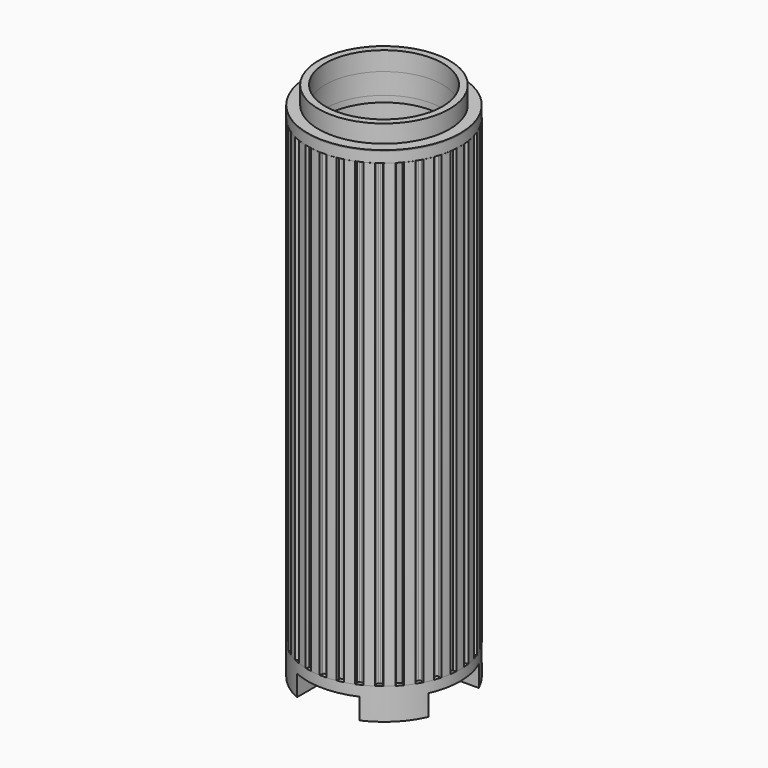
from build123d import *

# Parameters (mm, degrees)
CYLINDER001_R          = 36.5
CYLINDER001_DEPTH      = 400
CYLINDER002_R          = 100
CYLINDER002_DEPTH      = 400
CYLINDER_R             = 32
CYLINDER_DEPTH         = 240
PAD_DEPTH              = 220
BOX002_W               = 100
BOX002_H               = 30
BOX002_DEPTH           = 10
BOX003_W               = 100
BOX003_H               = 30
BOX003_DEPTH           = 10
BOX003_PLACEMENT_ANGLE = 90
CYLINDER006_R          = 19
CYLINDER006_DEPTH      = 55
CYLINDER005_R          = 15
CYLINDER005_DEPTH      = 90
CYLINDER007_R          = 22
CYLINDER007_DEPTH      = 60
CYLINDER003_R          = 36.5
CYLINDER003_DEPTH      = 15
CYLINDER004_R          = 31.3
CYLINDER004_DEPTH      = 22.5
CHAMFER_SIZE           = 3
CYLINDER010_R          = 28
CYLINDER010_DEPTH      = 55
CYLINDER008_R          = 36.5
CYLINDER008_DEPTH      = 5
CYLINDER009_R          = 31.3
CYLINDER009_DEPTH      = 22
CYLINDER013_R          = 28
CYLINDER013_DEPTH      = 55
CYLINDER011_R          = 36.5
CYLINDER011_DEPTH      = 5
CYLINDER012_R          = 31.3
CYLINDER012_DEPTH      = 10


with BuildPart() as cylinder001:
    # Cylinder001 → Cylinder001 (new body)
    with BuildSketch(Plane.XY):
        Circle(CYLINDER001_R)
    extrude(amount=CYLINDER001_DEPTH)


with BuildPart() as cut001:
    # Cylinder002 → Cylinder002 (new body)
    with BuildSketch(Plane.XY):
        Circle(CYLINDER002_R)
    extrude(amount=CYLINDER002_DEPTH)

    # Cut001: cut Cylinder001
    add(cylinder001.part, mode=Mode.SUBTRACT)


with BuildPart() as cylinder:
    # Cylinder → Cylinder (new body)
    with BuildSketch(Plane.XY.offset(-10)):
        Circle(CYLINDER_R)
    extrude(amount=CYLINDER_DEPTH)


with BuildPart() as shade:
    # InvoluteGear → Pad (new body)
    with BuildSketch(Plane.XY):
        with BuildLine():
            Line((34.920851, -2.352474), (35.210847, -2.370096))
            add(Edge.make_bspline(
                [(35.210847, -2.370096), (35.34891, -2.371906), (35.765082, -2.362435), (36.457725, -2.219265)],
                knots=[0, 0, 0, 0, 1, 1, 1, 1], degree=3))
            add(Edge.make_bspline(
                [(36.457725, -2.219265), (37.288232, -2.045697), (38.490143, -1.681478), (39.991928, -0.920792)],
                knots=[0, 0, 0, 0, 1, 1, 1, 1], degree=3))
            ThreePointArc((39.991928, -0.920792), (40.002527, 0), (39.991928, 0.920792))
            add(Edge.make_bspline(
                [(39.991928, 0.920792), (38.490143, 1.681478), (37.288232, 2.045697), (36.457725, 2.219265)],
                knots=[0, 0, 0, 0, 1, 1, 1, 1], degree=3))
            add(Edge.make_bspline(
                [(36.457725, 2.219265), (35.765082, 2.362435), (35.34891, 2.371906), (35.210847, 2.370096)],
                knots=[0, 0, 0, 0, 1, 1, 1, 1], degree=3))
            Line((35.210847, 2.370096), (34.920851, 2.352474))
            ThreePointArc((34.920851, 2.352474), (34.429753, 2.671588), (34.223866, 3.219878))
            ThreePointArc((34.223866, 3.219878), (34.18669, 3.593166), (34.145443, 3.966026))
            ThreePointArc((34.145443, 3.966026), (34.232835, 4.545141), (34.646854, 4.959386))
            Line((34.646854, 4.959386), (34.934177, 5.002443))
            add(Edge.make_bspline(
                [(34.934177, 5.002443), (35.069599, 5.029378), (35.474707, 5.125169), (36.122448, 5.409219)],
                knots=[0, 0, 0, 0, 1, 1, 1, 1], degree=3))
            add(Edge.make_bspline(
                [(36.122448, 5.409219), (36.898719, 5.751666), (37.99864, 6.357817), (39.309452, 7.414119)],
                knots=[0, 0, 0, 0, 1, 1, 1, 1], degree=3))
            ThreePointArc((39.309452, 7.414119), (39.128376, 8.316993), (38.926565, 9.21546))
            add(Edge.make_bspline(
                [(38.926565, 9.21546), (37.299442, 9.647284), (36.048071, 9.753653), (35.199625, 9.750756)],
                knots=[0, 0, 0, 0, 1, 1, 1, 1], degree=3))
            add(Edge.make_bspline(
                [(35.199625, 9.750756), (34.492351, 9.746788), (34.083305, 9.669526), (33.948635, 9.639051)],
                knots=[0, 0, 0, 0, 1, 1, 1, 1], degree=3))
            Line((33.948635, 9.639051), (33.66864, 9.56152))
            ThreePointArc((33.66864, 9.56152), (33.121926, 9.771556), (32.806542, 10.265058))
            ThreePointArc((32.806542, 10.265058), (32.692568, 10.622459), (32.5747, 10.978595))
            ThreePointArc((32.5747, 10.978595), (32.539777, 11.563225), (32.858623, 12.054498))
            Line((32.858623, 12.054498), (33.130715, 12.156352))
            add(Edge.make_bspline(
                [(33.130715, 12.156352), (33.257577, 12.210853), (33.633917, 12.388778), (34.208446, 12.801294)],
                knots=[0, 0, 0, 0, 1, 1, 1, 1], degree=3))
            add(Edge.make_bspline(
                [(34.208446, 12.801294), (34.896555, 13.297653), (35.846414, 14.119245), (36.908964, 15.424997)],
                knots=[0, 0, 0, 0, 1, 1, 1, 1], degree=3))
            ThreePointArc((36.908964, 15.424997), (36.544127, 16.270494), (36.159924, 17.107368))
            add(Edge.make_bspline(
                [(36.159924, 17.107368), (34.478576, 17.191458), (33.232435, 17.035327), (32.403133, 16.856092)],
                knots=[0, 0, 0, 0, 1, 1, 1, 1], degree=3))
            add(Edge.make_bspline(
                [(32.403133, 16.856092), (31.71214, 16.705161), (31.328095, 16.544541), (31.202705, 16.486732)],
                knots=[0, 0, 0, 0, 1, 1, 1, 1], degree=3))
            Line((31.202705, 16.486732), (30.944948, 16.352682))
            ThreePointArc((30.944948, 16.352682), (30.366512, 16.444459), (29.955415, 16.861605))
            ThreePointArc((29.955415, 16.861605), (29.769623, 17.1875), (29.580286, 17.511348))
            ThreePointArc((29.580286, 17.511348), (29.424575, 18.075941), (29.634312, 18.62277))
            Line((29.634312, 18.62277), (29.879281, 18.778969))
            add(Edge.make_bspline(
                [(29.879281, 18.778969), (29.99204, 18.858656), (30.323163, 19.110938), (30.79937, 19.63389)],
                knots=[0, 0, 0, 0, 1, 1, 1, 1], degree=3))
            add(Edge.make_bspline(
                [(30.79937, 19.63389), (31.369244, 20.26247), (32.127527, 21.263594), (32.895377, 22.761729)],
                knots=[0, 0, 0, 0, 1, 1, 1, 1], degree=3))
            ThreePointArc((32.895377, 22.761729), (32.362724, 23.512896), (31.812921, 24.251602))
            add(Edge.make_bspline(
                [(31.812921, 24.251602), (30.150831, 23.984282), (28.964383, 23.572476), (28.190468, 23.224736)],
                knots=[0, 0, 0, 0, 1, 1, 1, 1], degree=3))
            add(Edge.make_bspline(
                [(28.190468, 23.224736), (27.545955, 22.933438), (27.203698, 22.69648), (27.093067, 22.613865)],
                knots=[0, 0, 0, 0, 1, 1, 1, 1], degree=3))
            Line((27.093067, 22.613865), (26.868813, 22.429153))
            ThreePointArc((26.868813, 22.429153), (26.283935, 22.398661), (25.795092, 22.72122))
            ThreePointArc((25.795092, 22.72122), (25.545603, 23.001365), (25.293072, 23.27877))
            ThreePointArc((25.293072, 23.27877), (25.023378, 23.798651), (25.11484, 24.377138))
            Line((25.11484, 24.377138), (25.32198, 24.580855))
            add(Edge.make_bspline(
                [(25.32198, 24.580855), (25.415707, 24.682245), (25.687142, 24.997858), (26.044215, 25.608392)],
                knots=[0, 0, 0, 0, 1, 1, 1, 1], degree=3))
            add(Edge.make_bspline(
                [(26.044215, 25.608392), (26.470946, 26.341719), (27.004514, 27.478622), (27.444105, 29.103664)],
                knots=[0, 0, 0, 0, 1, 1, 1, 1], degree=3))
            ThreePointArc((27.444105, 29.103664), (26.766915, 29.727671), (26.075541, 30.335924))
            add(Edge.make_bspline(
                [(26.075541, 30.335924), (24.505351, 29.728879), (23.430449, 29.079395), (22.745745, 28.578348)],
                knots=[0, 0, 0, 0, 1, 1, 1, 1], degree=3))
            add(Edge.make_bspline(
                [(22.745745, 28.578348), (22.17588, 28.159413), (21.890368, 27.856474), (21.799331, 27.752663)],
                knots=[0, 0, 0, 0, 1, 1, 1, 1], degree=3))
            Line((21.799331, 27.752663), (21.618381, 27.525363))
            ThreePointArc((21.618381, 27.525363), (21.052625, 27.373934), (20.507401, 27.587808))
            ThreePointArc((20.507401, 27.587808), (20.205118, 27.809959), (19.900429, 28.028798))
            ThreePointArc((19.900429, 28.028798), (19.52854, 28.481247), (19.497728, 29.066107))
            Line((19.497728, 29.066107), (19.657987, 29.30844))
            add(Edge.make_bspline(
                [(19.657987, 29.30844), (19.728586, 29.427101), (19.928469, 29.792252), (20.150802, 30.463684)],
                knots=[0, 0, 0, 0, 1, 1, 1, 1], degree=3))
            add(Edge.make_bspline(
                [(20.150802, 30.463684), (20.415742, 31.269708), (20.701274, 32.492702), (20.793393, 34.173629)],
                knots=[0, 0, 0, 0, 1, 1, 1, 1], degree=3))
            ThreePointArc((20.793393, 34.173629), (20.001264, 34.643205), (19.198535, 35.094421))
            add(Edge.make_bspline(
                [(19.198535, 35.094421), (17.788869, 34.17418), (16.872491, 33.315405), (16.306923, 32.682949)],
                knots=[0, 0, 0, 0, 1, 1, 1, 1], degree=3))
            add(Edge.make_bspline(
                [(16.306923, 32.682949), (15.836613, 32.154687), (15.620324, 31.799007), (15.55286, 31.678536)],
                knots=[0, 0, 0, 0, 1, 1, 1, 1], degree=3))
            Line((15.55286, 31.678536), (15.423123, 31.418582))
            ThreePointArc((15.423123, 31.418582), (14.901213, 31.152835), (14.323437, 31.248677))
            ThreePointArc((14.323437, 31.248677), (13.981572, 31.403125), (13.638042, 31.553834))
            ThreePointArc((13.638042, 31.553834), (13.18021, 31.919075), (13.028473, 32.484749))
            Line((13.028473, 32.484749), (13.134845, 32.755106))
            add(Edge.make_bspline(
                [(13.134845, 32.755106), (13.17923, 32.885852), (13.298827, 33.284582), (13.376703, 33.987567)],
                knots=[0, 0, 0, 0, 1, 1, 1, 1], degree=3))
            add(Edge.make_bspline(
                [(13.376703, 33.987567), (13.468271, 34.831061), (13.493289, 36.086696), (13.23391, 37.750043)],
                knots=[0, 0, 0, 0, 1, 1, 1, 1], degree=3))
            ThreePointArc((13.23391, 37.750043), (12.361461, 38.044664), (11.48246, 38.319124))
            add(Edge.make_bspline(
                [(11.48246, 38.319124), (10.294928, 37.125906), (9.577124, 36.095371), (9.155411, 35.359148)],
                knots=[0, 0, 0, 0, 1, 1, 1, 1], degree=3))
            add(Edge.make_bspline(
                [(9.155411, 35.359148), (8.805209, 34.744647), (8.667598, 34.351771), (8.626655, 34.219906)],
                knots=[0, 0, 0, 0, 1, 1, 1, 1], degree=3))
            Line((8.626655, 34.219906), (8.553801, 33.938658))
            ThreePointArc((8.553801, 33.938658), (8.098547, 33.570207), (7.51347, 33.543828))
            ThreePointArc((7.51347, 33.543828), (7.146964, 33.623824), (6.779607, 33.699815))
            ThreePointArc((6.779607, 33.699815), (6.255842, 33.961886), (5.98981, 34.483651))
            Line((5.98981, 34.483651), (6.037648, 34.770216))
            add(Edge.make_bspline(
                [(6.037648, 34.770216), (6.053879, 34.907334), (6.087962, 35.322216), (6.017977, 36.02603)],
                knots=[0, 0, 0, 0, 1, 1, 1, 1], degree=3))
            add(Edge.make_bspline(
                [(6.017977, 36.02603), (5.932172, 36.87013), (5.695582, 38.103527), (5.096042, 39.676599)],
                knots=[0, 0, 0, 0, 1, 1, 1, 1], degree=3))
            ThreePointArc((5.096042, 39.676599), (4.181403, 39.783389), (3.264547, 39.869097))
            add(Edge.make_bspline(
                [(3.264547, 39.869097), (2.351049, 38.455052), (1.863191, 37.297797), (1.603763, 36.489982)],
                knots=[0, 0, 0, 0, 1, 1, 1, 1], degree=3))
            add(Edge.make_bspline(
                [(1.603763, 36.489982), (1.388976, 35.816099), (1.336055, 35.403197), (1.323423, 35.265701)],
                knots=[0, 0, 0, 0, 1, 1, 1, 1], degree=3))
            Line((1.323423, 35.265701), (1.310636, 34.975452))
            ThreePointArc((1.310636, 34.975452), (0.941936, 34.5204), (0.375129, 34.372953))
            ThreePointArc((0.375129, 34.372953), (0, 34.375), (-0.375129, 34.372953))
            ThreePointArc((-0.375129, 34.372953), (-0.941936, 34.5204), (-1.310636, 34.975452))
            Line((-1.310636, 34.975452), (-1.323423, 35.265701))
            add(Edge.make_bspline(
                [(-1.323423, 35.265701), (-1.336055, 35.403197), (-1.388976, 35.816099), (-1.603763, 36.489982)],
                knots=[0, 0, 0, 0, 1, 1, 1, 1], degree=3))
            add(Edge.make_bspline(
                [(-1.603763, 36.489982), (-1.863191, 37.297797), (-2.351049, 38.455052), (-3.264547, 39.869097)],
                knots=[0, 0, 0, 0, 1, 1, 1, 1], degree=3))
            ThreePointArc((-3.264547, 39.869097), (-4.181403, 39.783389), (-5.096042, 39.676599))
            add(Edge.make_bspline(
                [(-5.096042, 39.676599), (-5.695582, 38.103527), (-5.932172, 36.87013), (-6.017977, 36.02603)],
                knots=[0, 0, 0, 0, 1, 1, 1, 1], degree=3))
            add(Edge.make_bspline(
                [(-6.017977, 36.02603), (-6.087962, 35.322216), (-6.053879, 34.907334), (-6.037648, 34.770216)],
                knots=[0, 0, 0, 0, 1, 1, 1, 1], degree=3))
            Line((-6.037648, 34.770216), (-5.98981, 34.483651))
            ThreePointArc((-5.98981, 34.483651), (-6.255842, 33.961886), (-6.779607, 33.699815))
            ThreePointArc((-6.779607, 33.699815), (-7.146964, 33.623824), (-7.51347, 33.543828))
            ThreePointArc((-7.51347, 33.543828), (-8.098547, 33.570207), (-8.553801, 33.938658))
            Line((-8.553801, 33.938658), (-8.626655, 34.219906))
            add(Edge.make_bspline(
                [(-8.626655, 34.219906), (-8.667598, 34.351771), (-8.805209, 34.744647), (-9.155411, 35.359148)],
                knots=[0, 0, 0, 0, 1, 1, 1, 1], degree=3))
            add(Edge.make_bspline(
                [(-9.155411, 35.359148), (-9.577124, 36.095371), (-10.294928, 37.125906), (-11.48246, 38.319124)],
                knots=[0, 0, 0, 0, 1, 1, 1, 1], degree=3))
            ThreePointArc((-11.48246, 38.319124), (-12.361461, 38.044664), (-13.23391, 37.750043))
            add(Edge.make_bspline(
                [(-13.23391, 37.750043), (-13.493289, 36.086696), (-13.468271, 34.831061), (-13.376703, 33.987567)],
                knots=[0, 0, 0, 0, 1, 1, 1, 1], degree=3))
            add(Edge.make_bspline(
                [(-13.376703, 33.987567), (-13.298827, 33.284582), (-13.17923, 32.885852), (-13.134845, 32.755106)],
                knots=[0, 0, 0, 0, 1, 1, 1, 1], degree=3))
            Line((-13.134845, 32.755106), (-13.028473, 32.484749))
            ThreePointArc((-13.028473, 32.484749), (-13.18021, 31.919075), (-13.638042, 31.553834))
            ThreePointArc((-13.638042, 31.553834), (-13.981572, 31.403125), (-14.323437, 31.248677))
            ThreePointArc((-14.323437, 31.248677), (-14.901213, 31.152835), (-15.423123, 31.418582))
            Line((-15.423123, 31.418582), (-15.55286, 31.678536))
            add(Edge.make_bspline(
                [(-15.55286, 31.678536), (-15.620324, 31.799007), (-15.836613, 32.154687), (-16.306923, 32.682949)],
                knots=[0, 0, 0, 0, 1, 1, 1, 1], degree=3))
            add(Edge.make_bspline(
                [(-16.306923, 32.682949), (-16.872491, 33.315405), (-17.788869, 34.17418), (-19.198535, 35.094421)],
                knots=[0, 0, 0, 0, 1, 1, 1, 1], degree=3))
            ThreePointArc((-19.198535, 35.094421), (-20.001264, 34.643205), (-20.793393, 34.173629))
            add(Edge.make_bspline(
                [(-20.793393, 34.173629), (-20.701274, 32.492702), (-20.415742, 31.269708), (-20.150802, 30.463684)],
                knots=[0, 0, 0, 0, 1, 1, 1, 1], degree=3))
            add(Edge.make_bspline(
                [(-20.150802, 30.463684), (-19.928469, 29.792252), (-19.728586, 29.427101), (-19.657987, 29.30844)],
                knots=[0, 0, 0, 0, 1, 1, 1, 1], degree=3))
            Line((-19.657987, 29.30844), (-19.497728, 29.066107))
            ThreePointArc((-19.497728, 29.066107), (-19.52854, 28.481247), (-19.900429, 28.028798))
            ThreePointArc((-19.900429, 28.028798), (-20.205118, 27.809959), (-20.507401, 27.587808))
            ThreePointArc((-20.507401, 27.587808), (-21.052625, 27.373934), (-21.618381, 27.525363))
            Line((-21.618381, 27.525363), (-21.799331, 27.752663))
            add(Edge.make_bspline(
                [(-21.799331, 27.752663), (-21.890368, 27.856474), (-22.17588, 28.159413), (-22.745745, 28.578348)],
                knots=[0, 0, 0, 0, 1, 1, 1, 1], degree=3))
            add(Edge.make_bspline(
                [(-22.745745, 28.578348), (-23.430449, 29.079395), (-24.505351, 29.728879), (-26.075541, 30.335924)],
                knots=[0, 0, 0, 0, 1, 1, 1, 1], degree=3))
            ThreePointArc((-26.075541, 30.335924), (-26.766915, 29.727671), (-27.444105, 29.103664))
            add(Edge.make_bspline(
                [(-27.444105, 29.103664), (-27.004514, 27.478622), (-26.470946, 26.341719), (-26.044215, 25.608392)],
                knots=[0, 0, 0, 0, 1, 1, 1, 1], degree=3))
            add(Edge.make_bspline(
                [(-26.044215, 25.608392), (-25.687142, 24.997858), (-25.415707, 24.682245), (-25.32198, 24.580855)],
                knots=[0, 0, 0, 0, 1, 1, 1, 1], degree=3))
            Line((-25.32198, 24.580855), (-25.11484, 24.377138))
            ThreePointArc((-25.11484, 24.377138), (-25.023378, 23.798651), (-25.293072, 23.27877))
            ThreePointArc((-25.293072, 23.27877), (-25.545603, 23.001365), (-25.795092, 22.72122))
            ThreePointArc((-25.795092, 22.72122), (-26.283935, 22.398661), (-26.868813, 22.429153))
            Line((-26.868813, 22.429153), (-27.093067, 22.613865))
            add(Edge.make_bspline(
                [(-27.093067, 22.613865), (-27.203698, 22.69648), (-27.545955, 22.933438), (-28.190468, 23.224736)],
                knots=[0, 0, 0, 0, 1, 1, 1, 1], degree=3))
            add(Edge.make_bspline(
                [(-28.190468, 23.224736), (-28.964383, 23.572476), (-30.150831, 23.984282), (-31.812921, 24.251602)],
                knots=[0, 0, 0, 0, 1, 1, 1, 1], degree=3))
            ThreePointArc((-31.812921, 24.251602), (-32.362724, 23.512896), (-32.895377, 22.761729))
            add(Edge.make_bspline(
                [(-32.895377, 22.761729), (-32.127527, 21.263594), (-31.369244, 20.26247), (-30.79937, 19.63389)],
                knots=[0, 0, 0, 0, 1, 1, 1, 1], degree=3))
            add(Edge.make_bspline(
                [(-30.79937, 19.63389), (-30.323163, 19.110938), (-29.99204, 18.858656), (-29.879281, 18.778969)],
                knots=[0, 0, 0, 0, 1, 1, 1, 1], degree=3))
            Line((-29.879281, 18.778969), (-29.634312, 18.62277))
            ThreePointArc((-29.634312, 18.62277), (-29.424575, 18.075941), (-29.580286, 17.511348))
            ThreePointArc((-29.580286, 17.511348), (-29.769623, 17.1875), (-29.955415, 16.861605))
            ThreePointArc((-29.955415, 16.861605), (-30.366512, 16.444459), (-30.944948, 16.352682))
            Line((-30.944948, 16.352682), (-31.202705, 16.486732))
            add(Edge.make_bspline(
                [(-31.202705, 16.486732), (-31.328095, 16.544541), (-31.71214, 16.705161), (-32.403133, 16.856092)],
                knots=[0, 0, 0, 0, 1, 1, 1, 1], degree=3))
            add(Edge.make_bspline(
                [(-32.403133, 16.856092), (-33.232435, 17.035327), (-34.478576, 17.191458), (-36.159924, 17.107368)],
                knots=[0, 0, 0, 0, 1, 1, 1, 1], degree=3))
            ThreePointArc((-36.159924, 17.107368), (-36.544127, 16.270494), (-36.908964, 15.424997))
            add(Edge.make_bspline(
                [(-36.908964, 15.424997), (-35.846414, 14.119245), (-34.896555, 13.297653), (-34.208446, 12.801294)],
                knots=[0, 0, 0, 0, 1, 1, 1, 1], degree=3))
            add(Edge.make_bspline(
                [(-34.208446, 12.801294), (-33.633917, 12.388778), (-33.257577, 12.210853), (-33.130715, 12.156352)],
                knots=[0, 0, 0, 0, 1, 1, 1, 1], degree=3))
            Line((-33.130715, 12.156352), (-32.858623, 12.054498))
            ThreePointArc((-32.858623, 12.054498), (-32.539777, 11.563225), (-32.5747, 10.978595))
            ThreePointArc((-32.5747, 10.978595), (-32.692568, 10.622459), (-32.806542, 10.265058))
            ThreePointArc((-32.806542, 10.265058), (-33.121926, 9.771556), (-33.66864, 9.56152))
            Line((-33.66864, 9.56152), (-33.948635, 9.639051))
            add(Edge.make_bspline(
                [(-33.948635, 9.639051), (-34.083305, 9.669526), (-34.492351, 9.746788), (-35.199625, 9.750756)],
                knots=[0, 0, 0, 0, 1, 1, 1, 1], degree=3))
            add(Edge.make_bspline(
                [(-35.199625, 9.750756), (-36.048071, 9.753653), (-37.299442, 9.647284), (-38.926565, 9.21546)],
                knots=[0, 0, 0, 0, 1, 1, 1, 1], degree=3))
            ThreePointArc((-38.926565, 9.21546), (-39.128376, 8.316993), (-39.309452, 7.414119))
            add(Edge.make_bspline(
                [(-39.309452, 7.414119), (-37.99864, 6.357817), (-36.898719, 5.751666), (-36.122448, 5.409219)],
                knots=[0, 0, 0, 0, 1, 1, 1, 1], degree=3))
            add(Edge.make_bspline(
                [(-36.122448, 5.409219), (-35.474707, 5.125169), (-35.069599, 5.029378), (-34.934177, 5.002443)],
                knots=[0, 0, 0, 0, 1, 1, 1, 1], degree=3))
            Line((-34.934177, 5.002443), (-34.646854, 4.959386))
            ThreePointArc((-34.646854, 4.959386), (-34.232835, 4.545141), (-34.145443, 3.966026))
            ThreePointArc((-34.145443, 3.966026), (-34.18669, 3.593166), (-34.223866, 3.219878))
            ThreePointArc((-34.223866, 3.219878), (-34.429753, 2.671588), (-34.920851, 2.352474))
            Line((-34.920851, 2.352474), (-35.210847, 2.370096))
            add(Edge.make_bspline(
                [(-35.210847, 2.370096), (-35.34891, 2.371906), (-35.765082, 2.362435), (-36.457725, 2.219265)],
                knots=[0, 0, 0, 0, 1, 1, 1, 1], degree=3))
            add(Edge.make_bspline(
                [(-36.457725, 2.219265), (-37.288232, 2.045697), (-38.490143, 1.681478), (-39.991928, 0.920792)],
                knots=[0, 0, 0, 0, 1, 1, 1, 1], degree=3))
            ThreePointArc((-39.991928, 0.920792), (-40.002527, 0), (-39.991928, -0.920792))
            add(Edge.make_bspline(
                [(-39.991928, -0.920792), (-38.490143, -1.681478), (-37.288232, -2.045697), (-36.457725, -2.219265)],
                knots=[0, 0, 0, 0, 1, 1, 1, 1], degree=3))
            add(Edge.make_bspline(
                [(-36.457725, -2.219265), (-35.765082, -2.362435), (-35.34891, -2.371906), (-35.210847, -2.370096)],
                knots=[0, 0, 0, 0, 1, 1, 1, 1], degree=3))
            Line((-35.210847, -2.370096), (-34.920851, -2.352474))
            ThreePointArc((-34.920851, -2.352474), (-34.429753, -2.671588), (-34.223866, -3.219878))
            ThreePointArc((-34.223866, -3.219878), (-34.18669, -3.593166), (-34.145443, -3.966026))
            ThreePointArc((-34.145443, -3.966026), (-34.232835, -4.545141), (-34.646854, -4.959386))
            Line((-34.646854, -4.959386), (-34.934177, -5.002443))
            add(Edge.make_bspline(
                [(-34.934177, -5.002443), (-35.069599, -5.029378), (-35.474707, -5.125169), (-36.122448, -5.409219)],
                knots=[0, 0, 0, 0, 1, 1, 1, 1], degree=3))
            add(Edge.make_bspline(
                [(-36.122448, -5.409219), (-36.898719, -5.751666), (-37.99864, -6.357817), (-39.309452, -7.414119)],
                knots=[0, 0, 0, 0, 1, 1, 1, 1], degree=3))
            ThreePointArc((-39.309452, -7.414119), (-39.128376, -8.316993), (-38.926565, -9.21546))
            add(Edge.make_bspline(
                [(-38.926565, -9.21546), (-37.299442, -9.647284), (-36.048071, -9.753653), (-35.199625, -9.750756)],
                knots=[0, 0, 0, 0, 1, 1, 1, 1], degree=3))
            add(Edge.make_bspline(
                [(-35.199625, -9.750756), (-34.492351, -9.746788), (-34.083305, -9.669526), (-33.948635, -9.639051)],
                knots=[0, 0, 0, 0, 1, 1, 1, 1], degree=3))
            Line((-33.948635, -9.639051), (-33.66864, -9.56152))
            ThreePointArc((-33.66864, -9.56152), (-33.121926, -9.771556), (-32.806542, -10.265058))
            ThreePointArc((-32.806542, -10.265058), (-32.692568, -10.622459), (-32.5747, -10.978595))
            ThreePointArc((-32.5747, -10.978595), (-32.539777, -11.563225), (-32.858623, -12.054498))
            Line((-32.858623, -12.054498), (-33.130715, -12.156352))
            add(Edge.make_bspline(
                [(-33.130715, -12.156352), (-33.257577, -12.210853), (-33.633917, -12.388778), (-34.208446, -12.801294)],
                knots=[0, 0, 0, 0, 1, 1, 1, 1], degree=3))
            add(Edge.make_bspline(
                [(-34.208446, -12.801294), (-34.896555, -13.297653), (-35.846414, -14.119245), (-36.908964, -15.424997)],
                knots=[0, 0, 0, 0, 1, 1, 1, 1], degree=3))
            ThreePointArc((-36.908964, -15.424997), (-36.544127, -16.270494), (-36.159924, -17.107368))
            add(Edge.make_bspline(
                [(-36.159924, -17.107368), (-34.478576, -17.191458), (-33.232435, -17.035327), (-32.403133, -16.856092)],
                knots=[0, 0, 0, 0, 1, 1, 1, 1], degree=3))
            add(Edge.make_bspline(
                [(-32.403133, -16.856092), (-31.71214, -16.705161), (-31.328095, -16.544541), (-31.202705, -16.486732)],
                knots=[0, 0, 0, 0, 1, 1, 1, 1], degree=3))
            Line((-31.202705, -16.486732), (-30.944948, -16.352682))
            ThreePointArc((-30.944948, -16.352682), (-30.366512, -16.444459), (-29.955415, -16.861605))
            ThreePointArc((-29.955415, -16.861605), (-29.769623, -17.1875), (-29.580286, -17.511348))
            ThreePointArc((-29.580286, -17.511348), (-29.424575, -18.075941), (-29.634312, -18.62277))
            Line((-29.634312, -18.62277), (-29.879281, -18.778969))
            add(Edge.make_bspline(
                [(-29.879281, -18.778969), (-29.99204, -18.858656), (-30.323163, -19.110938), (-30.79937, -19.63389)],
                knots=[0, 0, 0, 0, 1, 1, 1, 1], degree=3))
            add(Edge.make_bspline(
                [(-30.79937, -19.63389), (-31.369244, -20.26247), (-32.127527, -21.263594), (-32.895377, -22.761729)],
                knots=[0, 0, 0, 0, 1, 1, 1, 1], degree=3))
            ThreePointArc((-32.895377, -22.761729), (-32.362724, -23.512896), (-31.812921, -24.251602))
            add(Edge.make_bspline(
                [(-31.812921, -24.251602), (-30.150831, -23.984282), (-28.964383, -23.572476), (-28.190468, -23.224736)],
                knots=[0, 0, 0, 0, 1, 1, 1, 1], degree=3))
            add(Edge.make_bspline(
                [(-28.190468, -23.224736), (-27.545955, -22.933438), (-27.203698, -22.69648), (-27.093067, -22.613865)],
                knots=[0, 0, 0, 0, 1, 1, 1, 1], degree=3))
            Line((-27.093067, -22.613865), (-26.868813, -22.429153))
            ThreePointArc((-26.868813, -22.429153), (-26.283935, -22.398661), (-25.795092, -22.72122))
            ThreePointArc((-25.795092, -22.72122), (-25.545603, -23.001365), (-25.293072, -23.27877))
            ThreePointArc((-25.293072, -23.27877), (-25.023378, -23.798651), (-25.11484, -24.377138))
            Line((-25.11484, -24.377138), (-25.32198, -24.580855))
            add(Edge.make_bspline(
                [(-25.32198, -24.580855), (-25.415707, -24.682245), (-25.687142, -24.997858), (-26.044215, -25.608392)],
                knots=[0, 0, 0, 0, 1, 1, 1, 1], degree=3))
            add(Edge.make_bspline(
                [(-26.044215, -25.608392), (-26.470946, -26.341719), (-27.004514, -27.478622), (-27.444105, -29.103664)],
                knots=[0, 0, 0, 0, 1, 1, 1, 1], degree=3))
            ThreePointArc((-27.444105, -29.103664), (-26.766915, -29.727671), (-26.075541, -30.335924))
            add(Edge.make_bspline(
                [(-26.075541, -30.335924), (-24.505351, -29.728879), (-23.430449, -29.079395), (-22.745745, -28.578348)],
                knots=[0, 0, 0, 0, 1, 1, 1, 1], degree=3))
            add(Edge.make_bspline(
                [(-22.745745, -28.578348), (-22.17588, -28.159413), (-21.890368, -27.856474), (-21.799331, -27.752663)],
                knots=[0, 0, 0, 0, 1, 1, 1, 1], degree=3))
            Line((-21.799331, -27.752663), (-21.618381, -27.525363))
            ThreePointArc((-21.618381, -27.525363), (-21.052625, -27.373934), (-20.507401, -27.587808))
            ThreePointArc((-20.507401, -27.587808), (-20.205118, -27.809959), (-19.900429, -28.028798))
            ThreePointArc((-19.900429, -28.028798), (-19.52854, -28.481247), (-19.497728, -29.066107))
            Line((-19.497728, -29.066107), (-19.657987, -29.30844))
            add(Edge.make_bspline(
                [(-19.657987, -29.30844), (-19.728586, -29.427101), (-19.928469, -29.792252), (-20.150802, -30.463684)],
                knots=[0, 0, 0, 0, 1, 1, 1, 1], degree=3))
            add(Edge.make_bspline(
                [(-20.150802, -30.463684), (-20.415742, -31.269708), (-20.701274, -32.492702), (-20.793393, -34.173629)],
                knots=[0, 0, 0, 0, 1, 1, 1, 1], degree=3))
            ThreePointArc((-20.793393, -34.173629), (-20.001264, -34.643205), (-19.198535, -35.094421))
            add(Edge.make_bspline(
                [(-19.198535, -35.094421), (-17.788869, -34.17418), (-16.872491, -33.315405), (-16.306923, -32.682949)],
                knots=[0, 0, 0, 0, 1, 1, 1, 1], degree=3))
            add(Edge.make_bspline(
                [(-16.306923, -32.682949), (-15.836613, -32.154687), (-15.620324, -31.799007), (-15.55286, -31.678536)],
                knots=[0, 0, 0, 0, 1, 1, 1, 1], degree=3))
            Line((-15.55286, -31.678536), (-15.423123, -31.418582))
            ThreePointArc((-15.423123, -31.418582), (-14.901213, -31.152835), (-14.323437, -31.248677))
            ThreePointArc((-14.323437, -31.248677), (-13.981572, -31.403125), (-13.638042, -31.553834))
            ThreePointArc((-13.638042, -31.553834), (-13.18021, -31.919075), (-13.028473, -32.484749))
            Line((-13.028473, -32.484749), (-13.134845, -32.755106))
            add(Edge.make_bspline(
                [(-13.134845, -32.755106), (-13.17923, -32.885852), (-13.298827, -33.284582), (-13.376703, -33.987567)],
                knots=[0, 0, 0, 0, 1, 1, 1, 1], degree=3))
            add(Edge.make_bspline(
                [(-13.376703, -33.987567), (-13.468271, -34.831061), (-13.493289, -36.086696), (-13.23391, -37.750043)],
                knots=[0, 0, 0, 0, 1, 1, 1, 1], degree=3))
            ThreePointArc((-13.23391, -37.750043), (-12.361461, -38.044664), (-11.48246, -38.319124))
            add(Edge.make_bspline(
                [(-11.48246, -38.319124), (-10.294928, -37.125906), (-9.577124, -36.095371), (-9.155411, -35.359148)],
                knots=[0, 0, 0, 0, 1, 1, 1, 1], degree=3))
            add(Edge.make_bspline(
                [(-9.155411, -35.359148), (-8.805209, -34.744647), (-8.667598, -34.351771), (-8.626655, -34.219906)],
                knots=[0, 0, 0, 0, 1, 1, 1, 1], degree=3))
            Line((-8.626655, -34.219906), (-8.553801, -33.938658))
            ThreePointArc((-8.553801, -33.938658), (-8.098547, -33.570207), (-7.51347, -33.543828))
            ThreePointArc((-7.51347, -33.543828), (-7.146964, -33.623824), (-6.779607, -33.699815))
            ThreePointArc((-6.779607, -33.699815), (-6.255842, -33.961886), (-5.98981, -34.483651))
            Line((-5.98981, -34.483651), (-6.037648, -34.770216))
            add(Edge.make_bspline(
                [(-6.037648, -34.770216), (-6.053879, -34.907334), (-6.087962, -35.322216), (-6.017977, -36.02603)],
                knots=[0, 0, 0, 0, 1, 1, 1, 1], degree=3))
            add(Edge.make_bspline(
                [(-6.017977, -36.02603), (-5.932172, -36.87013), (-5.695582, -38.103527), (-5.096042, -39.676599)],
                knots=[0, 0, 0, 0, 1, 1, 1, 1], degree=3))
            ThreePointArc((-5.096042, -39.676599), (-4.181403, -39.783389), (-3.264547, -39.869097))
            add(Edge.make_bspline(
                [(-3.264547, -39.869097), (-2.351049, -38.455052), (-1.863191, -37.297797), (-1.603763, -36.489982)],
                knots=[0, 0, 0, 0, 1, 1, 1, 1], degree=3))
            add(Edge.make_bspline(
                [(-1.603763, -36.489982), (-1.388976, -35.816099), (-1.336055, -35.403197), (-1.323423, -35.265701)],
                knots=[0, 0, 0, 0, 1, 1, 1, 1], degree=3))
            Line((-1.323423, -35.265701), (-1.310636, -34.975452))
            ThreePointArc((-1.310636, -34.975452), (-0.941936, -34.5204), (-0.375129, -34.372953))
            ThreePointArc((-0.375129, -34.372953), (0, -34.375), (0.375129, -34.372953))
            ThreePointArc((0.375129, -34.372953), (0.941936, -34.5204), (1.310636, -34.975452))
            Line((1.310636, -34.975452), (1.323423, -35.265701))
            add(Edge.make_bspline(
                [(1.323423, -35.265701), (1.336055, -35.403197), (1.388976, -35.816099), (1.603763, -36.489982)],
                knots=[0, 0, 0, 0, 1, 1, 1, 1], degree=3))
            add(Edge.make_bspline(
                [(1.603763, -36.489982), (1.863191, -37.297797), (2.351049, -38.455052), (3.264547, -39.869097)],
                knots=[0, 0, 0, 0, 1, 1, 1, 1], degree=3))
            ThreePointArc((3.264547, -39.869097), (4.181403, -39.783389), (5.096042, -39.676599))
            add(Edge.make_bspline(
                [(5.096042, -39.676599), (5.695582, -38.103527), (5.932172, -36.87013), (6.017977, -36.02603)],
                knots=[0, 0, 0, 0, 1, 1, 1, 1], degree=3))
            add(Edge.make_bspline(
                [(6.017977, -36.02603), (6.087962, -35.322216), (6.053879, -34.907334), (6.037648, -34.770216)],
                knots=[0, 0, 0, 0, 1, 1, 1, 1], degree=3))
            Line((6.037648, -34.770216), (5.98981, -34.483651))
            ThreePointArc((5.98981, -34.483651), (6.255842, -33.961886), (6.779607, -33.699815))
            ThreePointArc((6.779607, -33.699815), (7.146964, -33.623824), (7.51347, -33.543828))
            ThreePointArc((7.51347, -33.543828), (8.098547, -33.570207), (8.553801, -33.938658))
            Line((8.553801, -33.938658), (8.626655, -34.219906))
            add(Edge.make_bspline(
                [(8.626655, -34.219906), (8.667598, -34.351771), (8.805209, -34.744647), (9.155411, -35.359148)],
                knots=[0, 0, 0, 0, 1, 1, 1, 1], degree=3))
            add(Edge.make_bspline(
                [(9.155411, -35.359148), (9.577124, -36.095371), (10.294928, -37.125906), (11.48246, -38.319124)],
                knots=[0, 0, 0, 0, 1, 1, 1, 1], degree=3))
            ThreePointArc((11.48246, -38.319124), (12.361461, -38.044664), (13.23391, -37.750043))
            add(Edge.make_bspline(
                [(13.23391, -37.750043), (13.493289, -36.086696), (13.468271, -34.831061), (13.376703, -33.987567)],
                knots=[0, 0, 0, 0, 1, 1, 1, 1], degree=3))
            add(Edge.make_bspline(
                [(13.376703, -33.987567), (13.298827, -33.284582), (13.17923, -32.885852), (13.134845, -32.755106)],
                knots=[0, 0, 0, 0, 1, 1, 1, 1], degree=3))
            Line((13.134845, -32.755106), (13.028473, -32.484749))
            ThreePointArc((13.028473, -32.484749), (13.18021, -31.919075), (13.638042, -31.553834))
            ThreePointArc((13.638042, -31.553834), (13.981572, -31.403125), (14.323437, -31.248677))
            ThreePointArc((14.323437, -31.248677), (14.901213, -31.152835), (15.423123, -31.418582))
            Line((15.423123, -31.418582), (15.55286, -31.678536))
            add(Edge.make_bspline(
                [(15.55286, -31.678536), (15.620324, -31.799007), (15.836613, -32.154687), (16.306923, -32.682949)],
                knots=[0, 0, 0, 0, 1, 1, 1, 1], degree=3))
            add(Edge.make_bspline(
                [(16.306923, -32.682949), (16.872491, -33.315405), (17.788869, -34.17418), (19.198535, -35.094421)],
                knots=[0, 0, 0, 0, 1, 1, 1, 1], degree=3))
            ThreePointArc((19.198535, -35.094421), (20.001264, -34.643205), (20.793393, -34.173629))
            add(Edge.make_bspline(
                [(20.793393, -34.173629), (20.701274, -32.492702), (20.415742, -31.269708), (20.150802, -30.463684)],
                knots=[0, 0, 0, 0, 1, 1, 1, 1], degree=3))
            add(Edge.make_bspline(
                [(20.150802, -30.463684), (19.928469, -29.792252), (19.728586, -29.427101), (19.657987, -29.30844)],
                knots=[0, 0, 0, 0, 1, 1, 1, 1], degree=3))
            Line((19.657987, -29.30844), (19.497728, -29.066107))
            ThreePointArc((19.497728, -29.066107), (19.52854, -28.481247), (19.900429, -28.028798))
            ThreePointArc((19.900429, -28.028798), (20.205118, -27.809959), (20.507401, -27.587808))
            ThreePointArc((20.507401, -27.587808), (21.052625, -27.373934), (21.618381, -27.525363))
            Line((21.618381, -27.525363), (21.799331, -27.752663))
            add(Edge.make_bspline(
                [(21.799331, -27.752663), (21.890368, -27.856474), (22.17588, -28.159413), (22.745745, -28.578348)],
                knots=[0, 0, 0, 0, 1, 1, 1, 1], degree=3))
            add(Edge.make_bspline(
                [(22.745745, -28.578348), (23.430449, -29.079395), (24.505351, -29.728879), (26.075541, -30.335924)],
                knots=[0, 0, 0, 0, 1, 1, 1, 1], degree=3))
            ThreePointArc((26.075541, -30.335924), (26.766915, -29.727671), (27.444105, -29.103664))
            add(Edge.make_bspline(
                [(27.444105, -29.103664), (27.004514, -27.478622), (26.470946, -26.341719), (26.044215, -25.608392)],
                knots=[0, 0, 0, 0, 1, 1, 1, 1], degree=3))
            add(Edge.make_bspline(
                [(26.044215, -25.608392), (25.687142, -24.997858), (25.415707, -24.682245), (25.32198, -24.580855)],
                knots=[0, 0, 0, 0, 1, 1, 1, 1], degree=3))
            Line((25.32198, -24.580855), (25.11484, -24.377138))
            ThreePointArc((25.11484, -24.377138), (25.023378, -23.798651), (25.293072, -23.27877))
            ThreePointArc((25.293072, -23.27877), (25.545603, -23.001365), (25.795092, -22.72122))
            ThreePointArc((25.795092, -22.72122), (26.283935, -22.398661), (26.868813, -22.429153))
            Line((26.868813, -22.429153), (27.093067, -22.613865))
            add(Edge.make_bspline(
                [(27.093067, -22.613865), (27.203698, -22.69648), (27.545955, -22.933438), (28.190468, -23.224736)],
                knots=[0, 0, 0, 0, 1, 1, 1, 1], degree=3))
            add(Edge.make_bspline(
                [(28.190468, -23.224736), (28.964383, -23.572476), (30.150831, -23.984282), (31.812921, -24.251602)],
                knots=[0, 0, 0, 0, 1, 1, 1, 1], degree=3))
            ThreePointArc((31.812921, -24.251602), (32.362724, -23.512896), (32.895377, -22.761729))
            add(Edge.make_bspline(
                [(32.895377, -22.761729), (32.127527, -21.263594), (31.369244, -20.26247), (30.79937, -19.63389)],
                knots=[0, 0, 0, 0, 1, 1, 1, 1], degree=3))
            add(Edge.make_bspline(
                [(30.79937, -19.63389), (30.323163, -19.110938), (29.99204, -18.858656), (29.879281, -18.778969)],
                knots=[0, 0, 0, 0, 1, 1, 1, 1], degree=3))
            Line((29.879281, -18.778969), (29.634312, -18.62277))
            ThreePointArc((29.634312, -18.62277), (29.424575, -18.075941), (29.580286, -17.511348))
            ThreePointArc((29.580286, -17.511348), (29.769623, -17.1875), (29.955415, -16.861605))
            ThreePointArc((29.955415, -16.861605), (30.366512, -16.444459), (30.944948, -16.352682))
            Line((30.944948, -16.352682), (31.202705, -16.486732))
            add(Edge.make_bspline(
                [(31.202705, -16.486732), (31.328095, -16.544541), (31.71214, -16.705161), (32.403133, -16.856092)],
                knots=[0, 0, 0, 0, 1, 1, 1, 1], degree=3))
            add(Edge.make_bspline(
                [(32.403133, -16.856092), (33.232435, -17.035327), (34.478576, -17.191458), (36.159924, -17.107368)],
                knots=[0, 0, 0, 0, 1, 1, 1, 1], degree=3))
            ThreePointArc((36.159924, -17.107368), (36.544127, -16.270494), (36.908964, -15.424997))
            add(Edge.make_bspline(
                [(36.908964, -15.424997), (35.846414, -14.119245), (34.896555, -13.297653), (34.208446, -12.801294)],
                knots=[0, 0, 0, 0, 1, 1, 1, 1], degree=3))
            add(Edge.make_bspline(
                [(34.208446, -12.801294), (33.633917, -12.388778), (33.257577, -12.210853), (33.130715, -12.156352)],
                knots=[0, 0, 0, 0, 1, 1, 1, 1], degree=3))
            Line((33.130715, -12.156352), (32.858623, -12.054498))
            ThreePointArc((32.858623, -12.054498), (32.539777, -11.563225), (32.5747, -10.978595))
            ThreePointArc((32.5747, -10.978595), (32.692568, -10.622459), (32.806542, -10.265058))
            ThreePointArc((32.806542, -10.265058), (33.121926, -9.771556), (33.66864, -9.56152))
            Line((33.66864, -9.56152), (33.948635, -9.639051))
            add(Edge.make_bspline(
                [(33.948635, -9.639051), (34.083305, -9.669526), (34.492351, -9.746788), (35.199625, -9.750756)],
                knots=[0, 0, 0, 0, 1, 1, 1, 1], degree=3))
            add(Edge.make_bspline(
                [(35.199625, -9.750756), (36.048071, -9.753653), (37.299442, -9.647284), (38.926565, -9.21546)],
                knots=[0, 0, 0, 0, 1, 1, 1, 1], degree=3))
            ThreePointArc((38.926565, -9.21546), (39.128376, -8.316993), (39.309452, -7.414119))
            add(Edge.make_bspline(
                [(39.309452, -7.414119), (37.99864, -6.357817), (36.898719, -5.751666), (36.122448, -5.409219)],
                knots=[0, 0, 0, 0, 1, 1, 1, 1], degree=3))
            add(Edge.make_bspline(
                [(36.122448, -5.409219), (35.474707, -5.125169), (35.069599, -5.029378), (34.934177, -5.002443)],
                knots=[0, 0, 0, 0, 1, 1, 1, 1], degree=3))
            Line((34.934177, -5.002443), (34.646854, -4.959386))
            ThreePointArc((34.646854, -4.959386), (34.232835, -4.545141), (34.145443, -3.966026))
            ThreePointArc((34.145443, -3.966026), (34.18669, -3.593166), (34.223866, -3.219878))
            ThreePointArc((34.223866, -3.219878), (34.429753, -2.671588), (34.920851, -2.352474))
        make_face()
    extrude(amount=PAD_DEPTH)

    # Cut: cut Cylinder
    add(cylinder.part, mode=Mode.SUBTRACT)

    # Cut002: cut Cut001
    add(cut001.part, mode=Mode.SUBTRACT)


with BuildPart() as shade_1:
    # Cut002 placement: moved
    add(shade.part.moved(Location((0, 0, 15))))


with BuildPart() as cube002:
    # Box002 → Box002 (new body)
    with BuildSketch(Plane(origin=(-50, -15, 0), x_dir=(1, 0, 0), z_dir=(0, 0, 1))):
        with Locations((50, 15)):
            Rectangle(BOX002_W, BOX002_H)
    extrude(amount=BOX002_DEPTH)


with BuildPart() as feet_cutout_fusion001:
    # Box003 → Box003 (new body)
    with BuildSketch(Plane.XY):
        with Locations((50, 15)):
            Rectangle(BOX003_W, BOX003_H)
    extrude(amount=BOX003_DEPTH)


with BuildPart() as feet_cutout_fusion001_1:
    # Box003 placement: moved
    add(feet_cutout_fusion001.part.moved(Location((15, -50, 0))).rotate(Axis((15, -50, 0), (0, 0, 1)), BOX003_PLACEMENT_ANGLE))

    # Fusion004: union Cube002
    add(cube002.part)


with BuildPart() as cylinder006:
    # Cylinder006 → Cylinder006 (new body)
    with BuildSketch(Plane.XY):
        Circle(CYLINDER006_R)
    extrude(amount=CYLINDER006_DEPTH)


with BuildPart() as fixture_mount:
    # Cylinder005 → Cylinder005 (new body)
    with BuildSketch(Plane.XY):
        Circle(CYLINDER005_R)
    extrude(amount=CYLINDER005_DEPTH)

    # Fusion002: union Cylinder006
    add(cylinder006.part)


with BuildPart() as cylinder007:
    # Cylinder007 → Cylinder007 (new body)
    with BuildSketch(Plane.XY):
        Circle(CYLINDER007_R)
    extrude(amount=CYLINDER007_DEPTH)


with BuildPart() as cylinder003:
    # Cylinder003 → Cylinder003 (new body)
    with BuildSketch(Plane.XY):
        Circle(CYLINDER003_R)
    extrude(amount=CYLINDER003_DEPTH)


with BuildPart() as base:
    # Cylinder004 → Cylinder004 (new body)
    with BuildSketch(Plane.XY):
        Circle(CYLINDER004_R)
    extrude(amount=CYLINDER004_DEPTH)

    # Fusion: union Cylinder003
    add(cylinder003.part)

    # Fusion003: union Cylinder007
    add(cylinder007.part)

    # Cut005: cut Fixture Mount
    add(fixture_mount.part, mode=Mode.SUBTRACT)

    # Cut006: cut Feet Cutout Fusion001
    add(feet_cutout_fusion001_1.part, mode=Mode.SUBTRACT)

    # Chamfer
    chamfer_edges = [base.edges().sort_by_distance(p)[0] for p in [
        (-22, 0, 60),
    ]]
    chamfer(chamfer_edges, length=CHAMFER_SIZE)


with BuildPart() as cylinder010:
    # Cylinder010 → Cylinder010 (new body)
    with BuildSketch(Plane.XY.offset(-10)):
        Circle(CYLINDER010_R)
    extrude(amount=CYLINDER010_DEPTH)


with BuildPart() as cylinder008:
    # Cylinder008 → Cylinder008 (new body)
    with BuildSketch(Plane.XY.offset(8.5)):
        Circle(CYLINDER008_R)
    extrude(amount=CYLINDER008_DEPTH)


with BuildPart() as joint:
    # Cylinder009 → Cylinder009 (new body)
    with BuildSketch(Plane.XY):
        Circle(CYLINDER009_R)
    extrude(amount=CYLINDER009_DEPTH)

    # Fusion005: union Cylinder008
    add(cylinder008.part)

    # Cut007: cut Cylinder010
    add(cylinder010.part, mode=Mode.SUBTRACT)


with BuildPart() as joint_1:
    # Cut007 placement: moved
    add(joint.part.moved(Location((0, 0, 227))))


with BuildPart() as cylinder013:
    # Cylinder013 → Cylinder013 (new body)
    with BuildSketch(Plane.XY.offset(-10)):
        Circle(CYLINDER013_R)
    extrude(amount=CYLINDER013_DEPTH)


with BuildPart() as cylinder011:
    # Cylinder011 → Cylinder011 (new body)
    with BuildSketch(Plane.XY.offset(5)):
        Circle(CYLINDER011_R)
    extrude(amount=CYLINDER011_DEPTH)


with BuildPart() as cap:
    # Cylinder012 → Cylinder012 (new body)
    with BuildSketch(Plane.XY):
        Circle(CYLINDER012_R)
    extrude(amount=CYLINDER012_DEPTH)

    # Fusion006: union Cylinder011
    add(cylinder011.part)

    # Cut008: cut Cylinder013
    add(cylinder013.part, mode=Mode.SUBTRACT)


with BuildPart() as cap_1:
    # Cut008 placement: moved
    add(cap.part.moved(Location((0, 0, 230))))


solid = Compound([shade_1.part, base.part, joint_1.part, cap_1.part])
